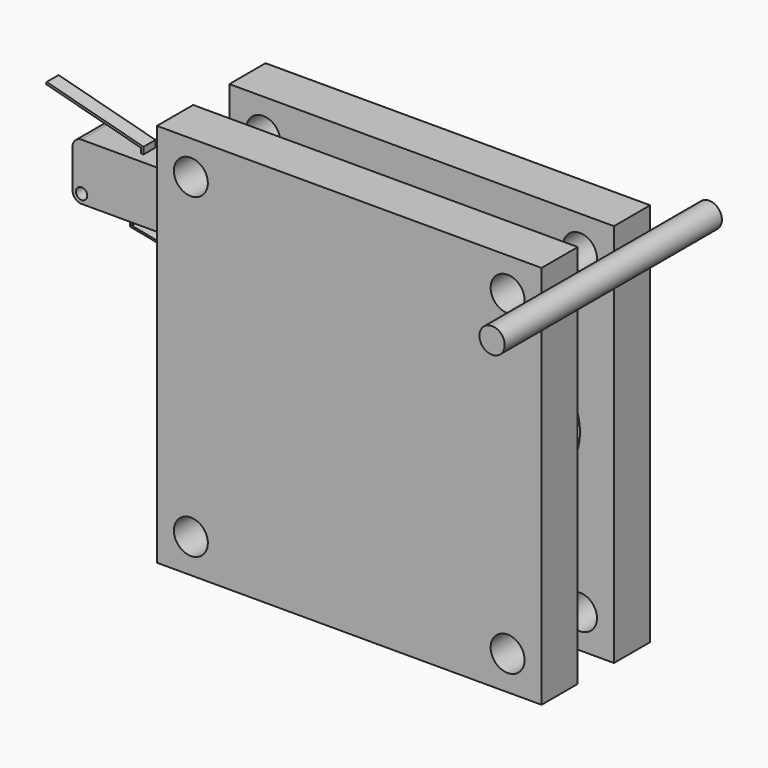
from build123d import *

# Parameters (mm, degrees)
F0_W      = 107.95
F0_H      = 107.95
F0_R      = 4.7625
F0_R_2    = 15.875
F1_DEPTH  = 12.7
F3_W      = 107.95
F3_H      = 107.95
F3_R      = 4.7625
F4_DEPTH  = 12.7
F5_R      = 3.556
F6_DEPTH  = 76.2
F7_W      = 28.575
F7_H      = 15.875
F8_DEPTH  = 5.08
F9_R      = 2.54
F10_R     = 1.5875
F11_DEPTH = 25.4
F13_DEPTH = 3.175
F14_W     = 10.1481601596
F14_H     = 0.9966949001
F14_W_2   = 10.3293806314
F15_DEPTH = 2.54
F17_DEPTH = 2.0955


with BuildPart() as f1:
    # F0 (on Front) → F1 (new body)
    with BuildSketch(Plane.XZ):
        Rectangle(F0_W, F0_H)
        with Locations((-44.45, -44.45)):
            Circle(F0_R, mode=Mode.SUBTRACT)
        with Locations((0, -28.575)):
            Circle(F0_R_2, mode=Mode.SUBTRACT)
        with Locations((44.45, -44.45)):
            Circle(F0_R, mode=Mode.SUBTRACT)
        with Locations((-28.575, 0)):
            Circle(F0_R_2, mode=Mode.SUBTRACT)
        with Locations((-44.45, 44.45)):
            Circle(F0_R, mode=Mode.SUBTRACT)
        with Locations((28.575, 0)):
            Circle(F0_R_2, mode=Mode.SUBTRACT)
        with BuildLine():
            ThreePointArc((-4.16e-08, 44.45), (11.2253201366, 39.800320166), (15.875, 28.575))
            ThreePointArc((15.875, 28.575), (-11.2253201366, 17.349679834), (-4.16e-08, 44.45))
        make_face(mode=Mode.SUBTRACT)
        with BuildLine():
            ThreePointArc((49.2125, 44.45), (44.45, 39.6875), (39.6875, 44.45))
            ThreePointArc((39.6875, 44.45), (44.45, 49.2125), (49.2125, 44.45))
        make_face(mode=Mode.SUBTRACT)
    extrude(amount=F1_DEPTH)


with BuildPart() as f4:
    # F3 (on offset) → F4 (new body)
    with BuildSketch(Plane.XZ.offset(25.4)):
        Rectangle(F3_W, F3_H)
        with Locations((-44.45, -44.45)):
            Circle(F3_R, mode=Mode.SUBTRACT)
        with Locations((44.45, -44.45)):
            Circle(F3_R, mode=Mode.SUBTRACT)
        with Locations((-44.45, 44.45)):
            Circle(F3_R, mode=Mode.SUBTRACT)
        with Locations((44.45, 44.45)):
            Circle(F3_R, mode=Mode.SUBTRACT)
    extrude(amount=F4_DEPTH)


with BuildPart() as f6:
    # F5 (on Front) → F6 (new body)
    with BuildSketch(Plane.XZ):
        with Locations((70.5638378859, 56.9540932775)):
            Circle(F5_R)
    extrude(amount=F6_DEPTH)


with BuildPart() as f8:
    # F7 (on Front) → F8 (new body, symmetric)
    with BuildSketch(Plane.XZ):
        with Locations((-89.7859223187, 13.733718681)):
            Rectangle(F7_W, F7_H)
    extrude(amount=F8_DEPTH, both=True)

    # F9
    f9_edges = [f8.edges().sort_by_distance(p)[0] for p in [
        (-104.073422, 0, 21.671219),
        (-104.073422, 0, 5.796219),
        (-75.498422, 0, 5.796219),
        (-75.498422, 0, 21.671219),
    ]]
    fillet(f9_edges, radius=F9_R)

    # F10 (on face) → F11 (cut)
    with BuildSketch(Plane.XZ.offset(5.08)):
        with Locations((-101.5334223187, 8.336218681)):
            Circle(F10_R)
        with Locations((-78.0384223187, 19.131218681)):
            Circle(F10_R)
    extrude(amount=-F11_DEPTH, mode=Mode.SUBTRACT)

    # F12 (on Front) → F13 (join, symmetric)
    with BuildSketch(Plane.XZ):
        Polygon((-88.9604223187, 6.1318718059), (-89.4684223187, 6.1318718059), (-89.4684223187, 3.3461439855), (-73.0874799634, 0.1140200436), (-72.9891424021, 0.6124111792), (-88.9604223187, 3.7637046202), align=None)
    extrude(amount=F13_DEPTH, both=True)

    # F14 (on Front) → F15 (join, symmetric)
    with BuildSketch(Plane.XZ):
        with Locations((-71.0859186947, 16.3361900486)):
            Rectangle(F14_W, F14_H)
        with Locations((-71.1765289307, 10.8009177894)):
            Rectangle(F14_W_2, F14_H)
    extrude(amount=F15_DEPTH, both=True)

    # F16 (on Front) → F17 (join, symmetric)
    with BuildSketch(Plane.XZ):
        Polygon((-87.1824223187, 23.0784109219), (-87.1824223187, 19.6668980286), (-86.5474223187, 19.6668980286), (-86.5474223187, 23.5672486144), (-113.7316583056, 30.7598784464), (-113.8940826058, 30.1460027695), align=None)
    extrude(amount=F17_DEPTH, both=True)


solid = Compound([f1.part, f4.part, f6.part, f8.part])
